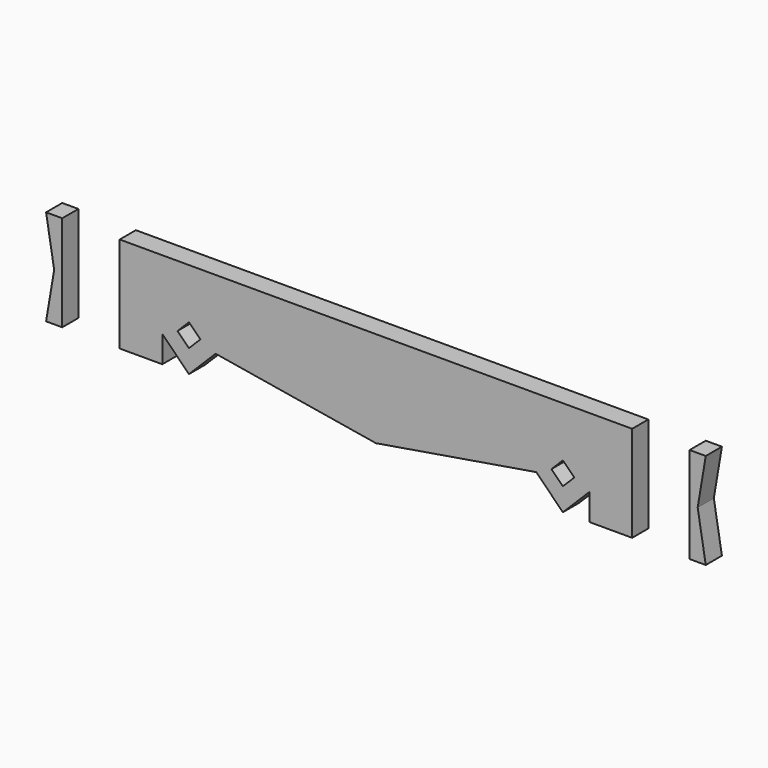
from build123d import *

# Parameters (mm, degrees)
F1_DEPTH = 25


with BuildPart() as f1:
    # F0 (on Front) → F1 (new body)
    with BuildSketch(Plane.XZ):
        Polygon((-388.15, -59.4), (-388.15, 59.4), (-408.15, 59.4), (-398.15, 0), (-408.15, -59.4), align=None)
        Polygon((264.35, -59.4), (317.05, -59.4), (317.05, 59.4), (-317.05, 59.4), (-317.05, -59.4), (-264.35, -59.4), (-264.35, -26.4), (-231.35, -59.4), (-198.35, -26.4), (0, -59.4), (198.35, -26.4), (231.35, -59.4), (264.35, -26.4), align=None)
        Polygon((-245.492136, -16.973593), (-231.35, -2.831458), (-217.207864, -16.973593), (-231.35, -31.115729), align=None, mode=Mode.SUBTRACT)
        Polygon((231.35, -31.115729), (217.207864, -16.973593), (231.35, -2.831458), (245.492136, -16.973593), align=None, mode=Mode.SUBTRACT)
        Polygon((388.15, -59.4), (408.15, -59.4), (398.15, 0), (408.15, 59.4), (388.15, 59.4), align=None)
    extrude(amount=F1_DEPTH)


solid = f1.part
